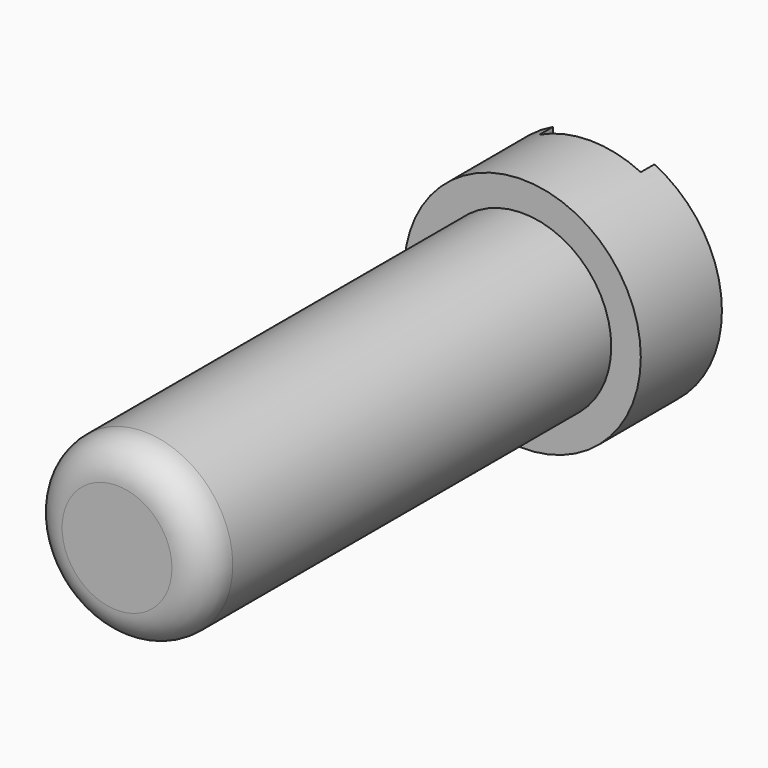
from build123d import *

# Parameters (mm, degrees)
F0_R     = 7
F1_DEPTH = 6
F2_R     = 5.25
F3_DEPTH = 30
F5_DEPTH = 1
F6_R     = 2


with BuildPart() as f1:
    # F0 (on Front) → F1 (new body)
    with BuildSketch(Plane.XZ):
        Circle(F0_R)
    extrude(amount=F1_DEPTH)

    # F2 (on face) → F3 (join)
    with BuildSketch(Plane.XZ.offset(6)):
        Circle(F2_R)
    extrude(amount=F3_DEPTH)

    # F4 (on face) → F5 (cut)
    with BuildSketch(Plane(origin=(0, 0, 0), x_dir=(-1, 0, 0), z_dir=(0, 1, 0))):
        with BuildLine():
            Line((-2.4702025112, 9.5145767555), (-3, 9.5145767555))
            Line((-3, 9.5145767555), (-3, 6.3245553203))
            ThreePointArc((-3, 6.3245553203), (0, 7), (3, 6.3245553203))
            Line((3, 6.3245553203), (3, 9.5145767555))
            Line((3, 9.5145767555), (-2.4702025112, 9.5145767555))
        make_face()
        with BuildLine():
            ThreePointArc((3, -6.3245553203), (0, -7), (-3, -6.3245553203))
            Line((-3, -6.3245553203), (-3, -11.1439647153))
            Line((-3, -11.1439647153), (3, -11.1439647153))
            Line((3, -11.1439647153), (3, -6.3245553203))
        make_face()
        with BuildLine():
            ThreePointArc((3, 6.3245553203), (0, 7), (-3, 6.3245553203))
            Line((-3, 6.3245553203), (-3, -6.3245553203))
            ThreePointArc((-3, -6.3245553203), (0, -7), (3, -6.3245553203))
            Line((3, -6.3245553203), (3, 6.3245553203))
        make_face()
    extrude(amount=-F5_DEPTH, mode=Mode.SUBTRACT)

    # F6
    f6_edges = [f1.edges().sort_by_distance(p)[0] for p in [
        (-5.25, -36, 0),
    ]]
    fillet(f6_edges, radius=F6_R)


solid = f1.part
